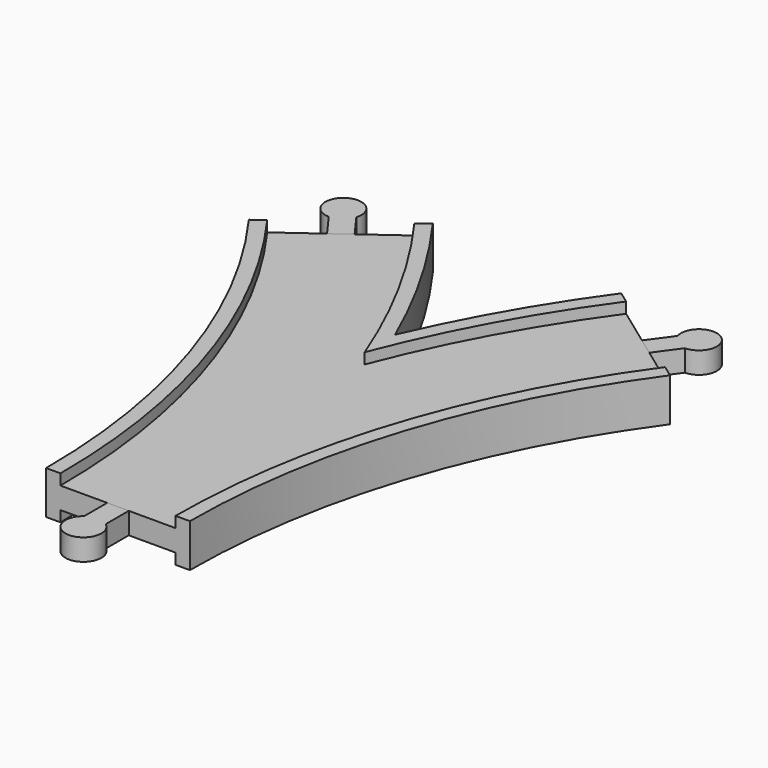
from build123d import *

# Parameters (mm, degrees)
SKETCH013_W  = 32
SKETCH013_H  = 3
PAD_DEPTH    = 3
PAD001_DEPTH = 3
PAD002_DEPTH = 3


with BuildPart() as main:
    # AdditivePipe: sweep along a path in Sketch
    with BuildLine(Plane.XY) as additivepipe_path:
        ThreePointArc((0, 0), (-10.865453, 68.601773), (-42.398227, 130.488326))
    # Sketch002 → AdditivePipe (sweep)
    with BuildSketch(Plane.XZ):
        Polygon((-20, 6), (-20, -6), (-16, -6), (-16, -3), (-9, -3), (9, -3), (16, -3), (16, -6), (20, -6), (20, 6), (16, 6), (16, 3), (9, 3), (-9, 3), (-16, 3), (-16, 6), align=None)
    sweep(path=additivepipe_path.line)

    # AdditivePipe001: sweep along a path in Sketch001
    with BuildLine(Plane.XY) as additivepipe001_path:
        ThreePointArc((42.398227, 130.488326), (10.865453, 68.601773), (0, 0))
    # Sketch002 → AdditivePipe001 (sweep)
    with BuildSketch(Plane.XZ):
        Polygon((-20, 6), (-20, -6), (-16, -6), (-16, -3), (-9, -3), (9, -3), (16, -3), (16, -6), (20, -6), (20, 6), (16, 6), (16, 3), (9, 3), (-9, 3), (-16, 3), (-16, 6), align=None)
    sweep(path=additivepipe001_path.line)

    # SubtractivePipe: sweep along a path in Sketch
    with BuildLine(Plane.XY) as subtractivepipe_path:
        ThreePointArc((0, 0), (-10.865453, 68.601773), (-42.398227, 130.488326))
    # Sketch013 (on Face1 of AdditivePipe001) → SubtractivePipe (sweep, cut)
    with BuildSketch(Plane.XZ):
        with Locations((0, 4.5)):
            Rectangle(SKETCH013_W, SKETCH013_H)
    subtractivepipe = sweep(path=subtractivepipe_path.line, mode=Mode.SUBTRACT)

    # SubtractivePipe001: sweep along a path in Sketch001
    with BuildLine(Plane.XY) as subtractivepipe001_path:
        ThreePointArc((42.398227, 130.488326), (10.865453, 68.601773), (0, 0))
    # Sketch013 (on Face1 of AdditivePipe001) → SubtractivePipe001 (sweep, cut)
    with BuildSketch(Plane.XZ):
        with Locations((0, 4.5)):
            Rectangle(SKETCH013_W, SKETCH013_H)
    subtractivepipe001 = sweep(path=subtractivepipe001_path.line, mode=Mode.SUBTRACT)

    # Mirrored: SubtractivePipe across XY
    add(subtractivepipe.mirror(Plane.XY), mode=Mode.SUBTRACT)

    # Mirrored001: SubtractivePipe001 across XY
    add(subtractivepipe001.mirror(Plane.XY), mode=Mode.SUBTRACT)


with BuildPart() as male1:
    # Sketch010 → Pad (new body, symmetric)
    with BuildSketch(Plane.XY):
        with BuildLine():
            Line((-3, 0), (3, 0))
            Line((3, 0), (3, -8))
            ThreePointArc((-3, -8), (0, -17), (3, -8))
            Line((-3, 0), (-3, -8))
        make_face()
    extrude(amount=PAD_DEPTH, both=True)


with BuildPart() as male3:
    # Sketch011 → Pad001 (new body, symmetric)
    with BuildSketch(Plane.XY):
        with BuildLine():
            Line((39.971176, 132.251682), (44.825278, 128.72497))
            Line((44.825278, 128.72497), (49.52756, 135.197106))
            ThreePointArc((49.52756, 135.197106), (52.390577, 144.241615), (44.673458, 138.723818))
            Line((39.971176, 132.251682), (44.673458, 138.723818))
        make_face()
    extrude(amount=PAD001_DEPTH, both=True)


with BuildPart() as male2:
    # Sketch012 → Pad002 (new body, symmetric)
    with BuildSketch(Plane.XY):
        with BuildLine():
            Line((-44.825278, 128.72497), (-39.971176, 132.251682))
            Line((-39.971176, 132.251682), (-44.673458, 138.723818))
            ThreePointArc((-44.673458, 138.723818), (-52.390577, 144.241615), (-49.52756, 135.197106))
            Line((-44.825278, 128.72497), (-49.52756, 135.197106))
        make_face()
    extrude(amount=PAD002_DEPTH, both=True)


solid = Compound([main.part, male1.part, male3.part, male2.part])
